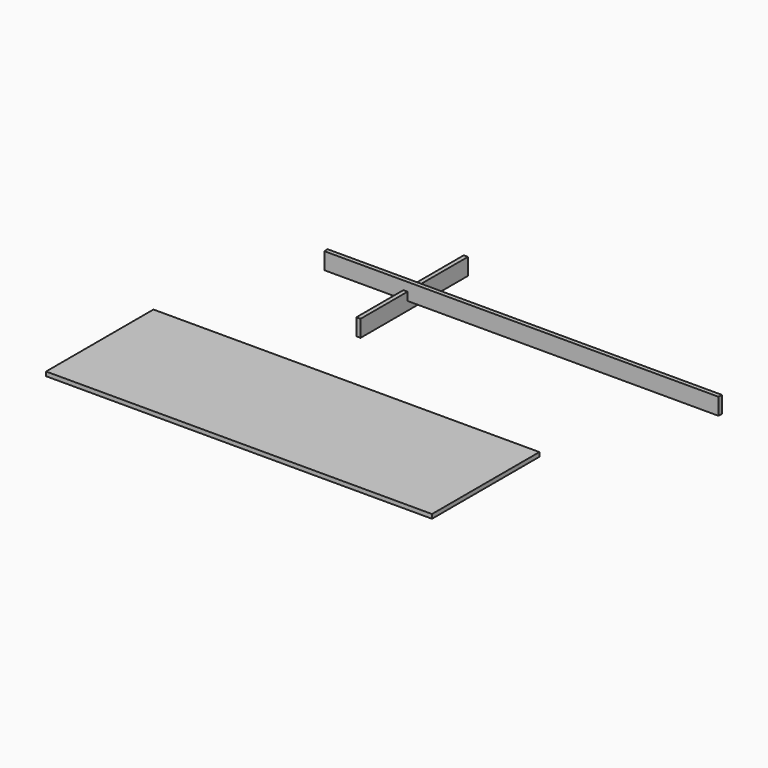
from build123d import *

# Parameters (mm, degrees)
F0_W     = 292.1
F0_H     = 101.6
F1_DEPTH = 3.175
F2_W     = 298.45
F2_H     = 12.7
F3_DEPTH = 3.175
F4_W     = 101.6
F4_H     = 12.7
F5_DEPTH = 3.175


with BuildPart() as f1:
    # F0 (on Top) → F1 (new body)
    with BuildSketch(Plane.XY):
        with Locations((-8.44177, -97.25921)):
            Rectangle(F0_W, F0_H)
    extrude(amount=F1_DEPTH)


with BuildPart() as f3:
    # F2 (on Front) → F3 (new body)
    with BuildSketch(Plane.XZ):
        with Locations((89.375189, 48.895411)):
            Rectangle(F2_W, F2_H)
    extrude(amount=F3_DEPTH)


with BuildPart() as f5:
    # F4 (on Right) → F5 (new body)
    with BuildSketch(Plane.YZ):
        with Locations((3.188521, 42.357355)):
            Rectangle(F4_W, F4_H)
    extrude(amount=F5_DEPTH)


solid = Compound([f1.part, f3.part, f5.part])
